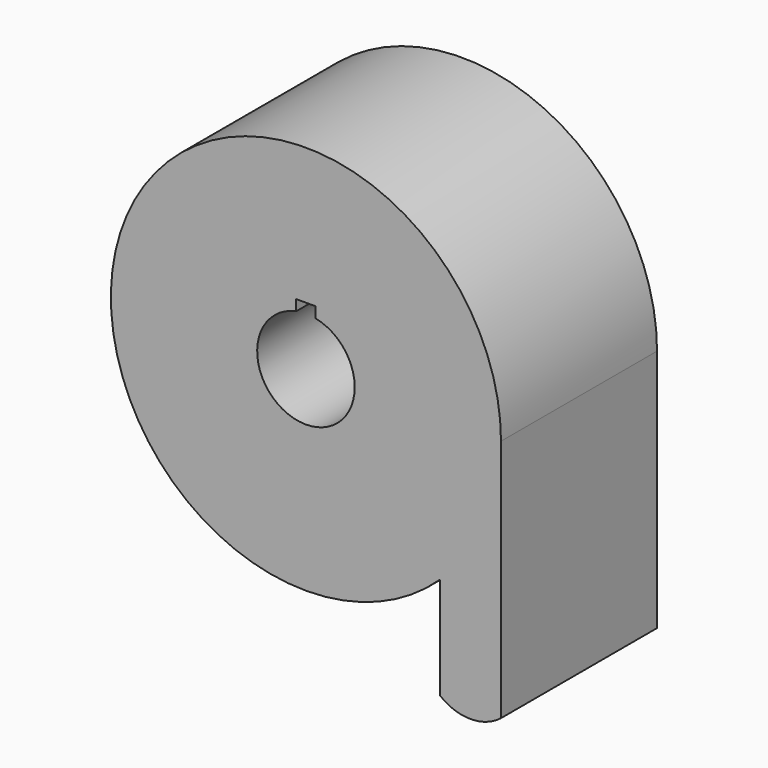
from build123d import *

# Parameters (mm, degrees)
F1_DEPTH = 25.4


with BuildPart() as f1:
    # F0 (on Front) → F1 (new body)
    with BuildSketch(Plane.XZ):
        with BuildLine():
            ThreePointArc((17.4625, -18.445083), (23.33139, -10.040232), (25.4, 0))
            ThreePointArc((25.4, 0), (-23.33139, 10.040232), (17.4625, -18.445083))
        make_face()
        with BuildLine():
            ThreePointArc((1.27, 6.221704), (4.918689, 4.016093), (6.35, 0))
            ThreePointArc((6.35, 0), (-4.016093, -4.918689), (-1.27, 6.221704))
            Line((-1.27, 6.221704), (-1.27, 7.62))
            Line((-1.27, 7.62), (1.27, 7.62))
            Line((1.27, 7.62), (1.27, 6.221704))
        make_face(mode=Mode.SUBTRACT)
        with BuildLine():
            Line((25.4, -31.75), (25.4, 0))
            ThreePointArc((25.4, 0), (23.33139, -10.040232), (17.4625, -18.445083))
            Line((17.4625, -18.445083), (17.4625, -31.75))
            ThreePointArc((17.4625, -31.75), (21.43125, -33.143033), (25.4, -31.75))
        make_face()
    extrude(amount=F1_DEPTH)


solid = f1.part
